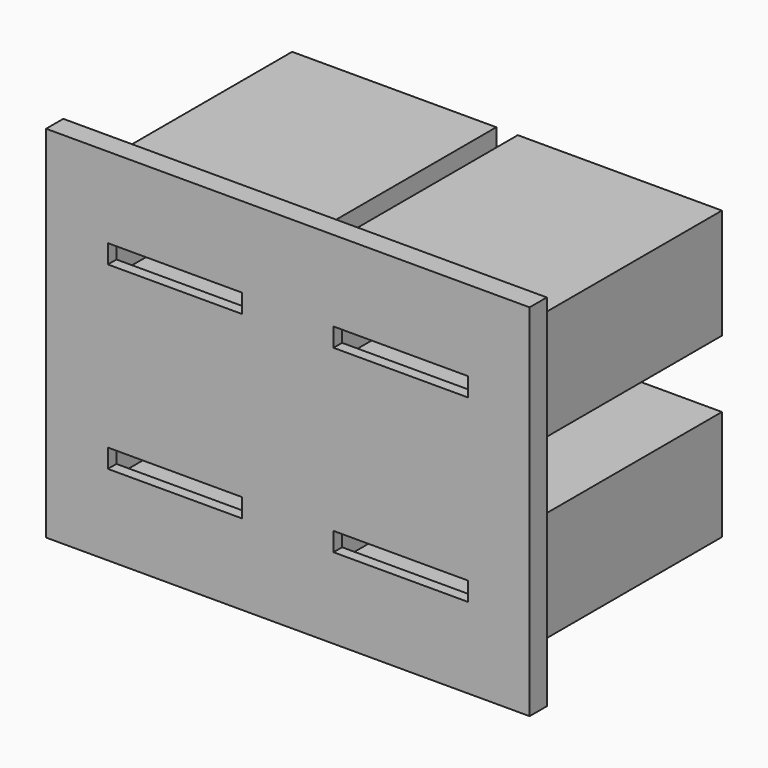
from build123d import *

# Parameters (mm, degrees)
F0_W      = 25.4
F0_H      = 22.86
F1_DEPTH  = 1.016
F2_W      = 6.35
F2_H      = 0.889
F3_DEPTH  = 25.4
F4_W      = 9.652
F4_H      = 5.207
F4_W_2    = 7.62
F4_H_2    = 3.175
F5_DEPTH  = 12.954
F6_W      = 25.4
F6_H      = 2.794
F6_H_2    = 3.048
F7_DEPTH  = 12.955
F8_W      = 2.54
F8_H      = 17.018
F9_DEPTH  = 25.4
F10_DEPTH = 0.508


with BuildPart() as f1:
    # F0 (on Front) → F1 (new body)
    with BuildSketch(Plane.XZ):
        with Locations((-10.1341714823, 23.5612259712)):
            Rectangle(F0_W, F0_H)
    extrude(amount=-F1_DEPTH)

    # F2 (on face) → F3 (cut)
    with BuildSketch(Plane.XZ):
        with Locations((-14.1981714823, 27.6887259712)):
            Rectangle(F2_W, F2_H)
        with Locations((-3.5301714823, 27.6887259712)):
            Rectangle(F2_W, F2_H)
        with Locations((-14.1981714823, 19.1797259712)):
            Rectangle(F2_W, F2_H)
        with Locations((-3.5301714823, 19.1797259712)):
            Rectangle(F2_W, F2_H)
    extrude(amount=-F3_DEPTH, mode=Mode.SUBTRACT)

    # F4 (on face) → F5 (join)
    with BuildSketch(Plane.XZ):
        with Locations((-14.1981714823, 27.6887259712)):
            Rectangle(F4_W, F4_H)
        with Locations((-14.1981714823, 27.6887259712)):
            Rectangle(F4_W_2, F4_H_2, mode=Mode.SUBTRACT)
        with Locations((-3.5301714823, 27.6887259712)):
            Rectangle(F4_W, F4_H)
        with Locations((-3.5301714823, 27.6887259712)):
            Rectangle(F4_W_2, F4_H_2, mode=Mode.SUBTRACT)
        with Locations((-14.1981714823, 19.3067259712)):
            Rectangle(F4_W, F4_H)
        with Locations((-14.1981714823, 19.3067259712)):
            Rectangle(F4_W_2, F4_H_2, mode=Mode.SUBTRACT)
        with Locations((-3.5301714823, 19.3067259712)):
            Rectangle(F4_W, F4_H)
        with Locations((-3.5301714823, 19.3067259712)):
            Rectangle(F4_W_2, F4_H_2, mode=Mode.SUBTRACT)
    extrude(amount=-F5_DEPTH)

    # F6 (on face) → F7 (cut, through all)
    with BuildSketch(Plane.XZ):
        with Locations((-10.1341714823, 13.5282259712)):
            Rectangle(F6_W, F6_H)
        with Locations((-10.1341714823, 33.4672259712)):
            Rectangle(F6_W, F6_H_2)
    extrude(amount=-F7_DEPTH, mode=Mode.SUBTRACT)

    # F8 (on face) → F9 (cut)
    with BuildSketch(Plane.XZ):
        with Locations((-21.5641714823, 23.4342259712)):
            Rectangle(F8_W, F8_H)
    extrude(amount=-F9_DEPTH, mode=Mode.SUBTRACT)

    # F10 (cut): faces of the model
    f10_faces = [f1.faces().sort_by_distance(p)[0] for p in [
        (-14.1981714823, 1.016, 26.1837759712),
        (-3.5301714823, 1.016, 20.8116759712),
        (-14.1981714823, 1.016, 17.8017759712),
        (-7.2576214823, 1.016, 27.6887259712),
    ]]
    extrude(f10_faces, amount=-F10_DEPTH, mode=Mode.SUBTRACT)


solid = f1.part
